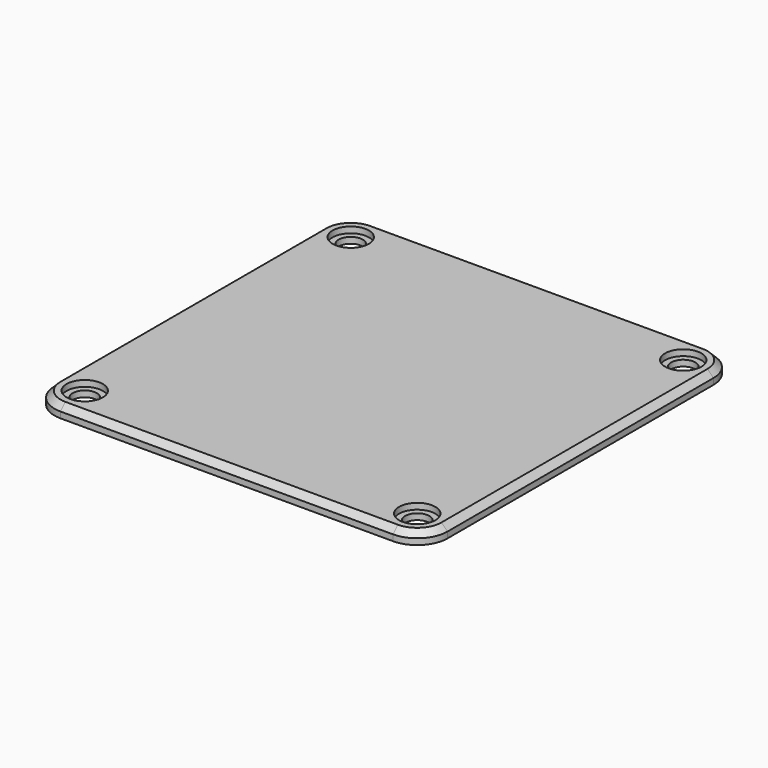
from build123d import *

# Parameters (mm, degrees)
F1_DEPTH = 2
F2_R     = 2
F3_DEPTH = 2
F2_R_2   = 3
F4_DEPTH = 1
F5_SIZE  = 1


with BuildPart() as f1:
    # F0 (on Top) → F1 (new body)
    with BuildSketch(Plane.XY):
        with BuildLine():
            ThreePointArc((32.5, 27.5), (31.035534, 31.035534), (27.5, 32.5))
            Line((27.5, 32.5), (-27.5, 32.5))
            ThreePointArc((-27.5, 32.5), (-31.035534, 31.035534), (-32.5, 27.5))
            Line((-32.5, 27.5), (-32.5, -27.5))
            ThreePointArc((-32.5, -27.5), (-31.035534, -31.035534), (-27.5, -32.5))
            Line((-27.5, -32.5), (27.5, -32.5))
            ThreePointArc((27.5, -32.5), (31.035534, -31.035534), (32.5, -27.5))
            Line((32.5, -27.5), (32.5, 27.5))
        make_face()
    extrude(amount=F1_DEPTH)

    # F2 (on face) → F3 (cut, through all)
    with BuildSketch(Plane.XY.offset(2)):
        with Locations((-27.5, 27.5)):
            Circle(F2_R)
        with Locations((27.5, 27.5)):
            Circle(F2_R)
        with Locations((27.5, -27.5)):
            Circle(F2_R)
        with Locations((-27.5, -27.5)):
            Circle(F2_R)
    extrude(amount=-F3_DEPTH, mode=Mode.SUBTRACT)

    # F2 (on face) → F4 (cut)
    with BuildSketch(Plane.XY.offset(2)):
        with Locations((-27.5, 27.5)):
            Circle(F2_R_2)
        with Locations((-27.5, 27.5)):
            Circle(F2_R, mode=Mode.SUBTRACT)
        with Locations((27.5, 27.5)):
            Circle(F2_R_2)
        with Locations((27.5, 27.5)):
            Circle(F2_R, mode=Mode.SUBTRACT)
        with Locations((-27.5, -27.5)):
            Circle(F2_R_2)
        with Locations((-27.5, -27.5)):
            Circle(F2_R, mode=Mode.SUBTRACT)
        with Locations((27.5, -27.5)):
            Circle(F2_R_2)
        with Locations((27.5, -27.5)):
            Circle(F2_R, mode=Mode.SUBTRACT)
    extrude(amount=-F4_DEPTH, mode=Mode.SUBTRACT)

    # F5
    f5_edges = [f1.edges().sort_by_distance(p)[0] for p in [
        (-32.5, 0, 2),
        (-31.035534, 31.035534, 2),
        (0, 32.5, 2),
        (31.035534, 31.035534, 2),
        (32.5, 0, 2),
        (31.035534, -31.035534, 2),
        (0, -32.5, 2),
        (-31.035534, -31.035534, 2),
    ]]
    chamfer(f5_edges, length=F5_SIZE)


solid = f1.part
